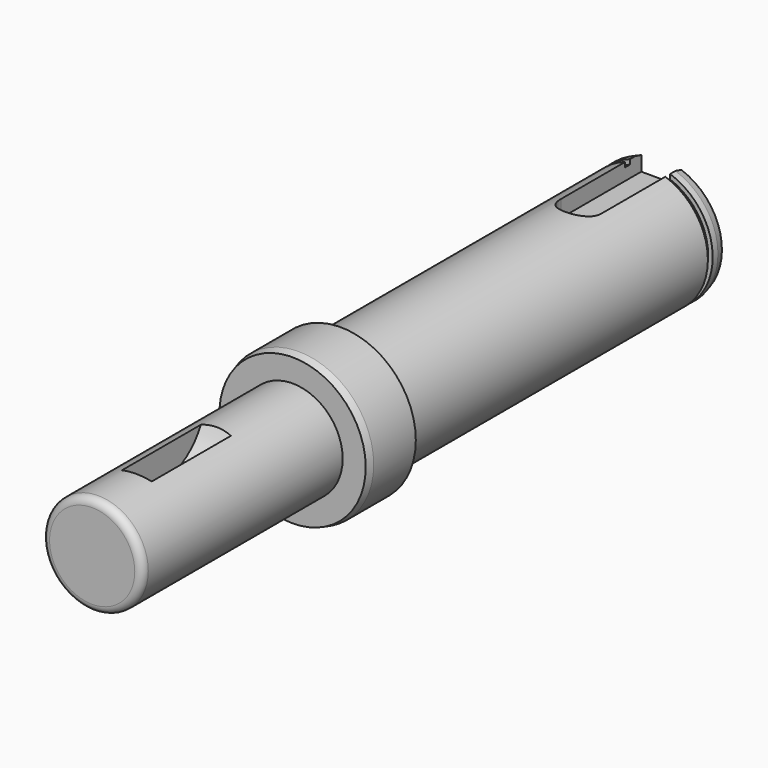
from build123d import *

# Parameters (mm, degrees)
F0_R      = 12.5
F1_DEPTH  = 80
F2_R      = 15
F3_DEPTH  = 12
F4_R      = 10
F5_DEPTH  = 50
F6_SIZE2  = 1.492820323
F6_SIZE   = 0.4
F7_SIZE2  = 1.492820323
F7_SIZE   = 0.4
F8_R      = 1.5
F11_DEPTH = 4
F12_W     = 1.2
F12_H     = 0.9
F14_R     = 11
F15_DEPTH = 3


with BuildPart() as f1:
    # F0 (on Front) → F1 (new body)
    with BuildSketch(Plane.XZ):
        Circle(F0_R)
    extrude(amount=F1_DEPTH)

    # F2 (on face) → F3 (join)
    with BuildSketch(Plane.XZ.offset(80)):
        Circle(F2_R)
    extrude(amount=F3_DEPTH)

    # F4 (on face) → F5 (join)
    with BuildSketch(Plane.XZ.offset(92)):
        Circle(F4_R)
    extrude(amount=F5_DEPTH)

    # F6
    f6_edges = [f1.edges().sort_by_distance(p)[0] for p in [
        (-12.5, 0, 0),
    ]]
    f6_side = f1.faces().sort_by_distance((0, 0, 0))[0]
    chamfer(f6_edges, length=F6_SIZE, length2=F6_SIZE2, reference=f6_side)

    # F7
    f7_edges = [f1.edges().sort_by_distance(p)[0] for p in [
        (-15, -92, 0),
    ]]
    f7_side = f1.faces().sort_by_distance((-14.575736, -92, 0))[0]
    chamfer(f7_edges, length=F7_SIZE, length2=F7_SIZE2, reference=f7_side)

    # F8
    f8_edges = [f1.edges().sort_by_distance(p)[0] for p in [
        (-10, -142, 0),
    ]]
    fillet(f8_edges, radius=F8_R)

    # F10 (on offset) → F11 (cut)
    with BuildSketch(Plane.XY.offset(12.5)):
        with BuildLine():
            Line((-4, 31.7779608309), (-4, -20))
            ThreePointArc((-4, -20), (0, -24), (4, -20))
            Line((4, -20), (4, 31.7779608309))
            Line((4, 31.7779608309), (-4, 31.7779608309))
        make_face()
    extrude(amount=-F11_DEPTH, mode=Mode.SUBTRACT)

    # F12 (on Right) → F13 (revolve, cut)
    with BuildSketch(Plane.YZ):
        with Locations((-3.4, -12.05)):
            Rectangle(F12_W, F12_H)
    revolve(axis=Axis((0, 0, 0), (0, 1, 0)), mode=Mode.SUBTRACT)

    # F14 (on Right) → F15 (cut, symmetric)
    with BuildSketch(Plane.YZ):
        with Locations((-121, 14.4)):
            Circle(F14_R)
    extrude(amount=F15_DEPTH, both=True, mode=Mode.SUBTRACT)


solid = f1.part
